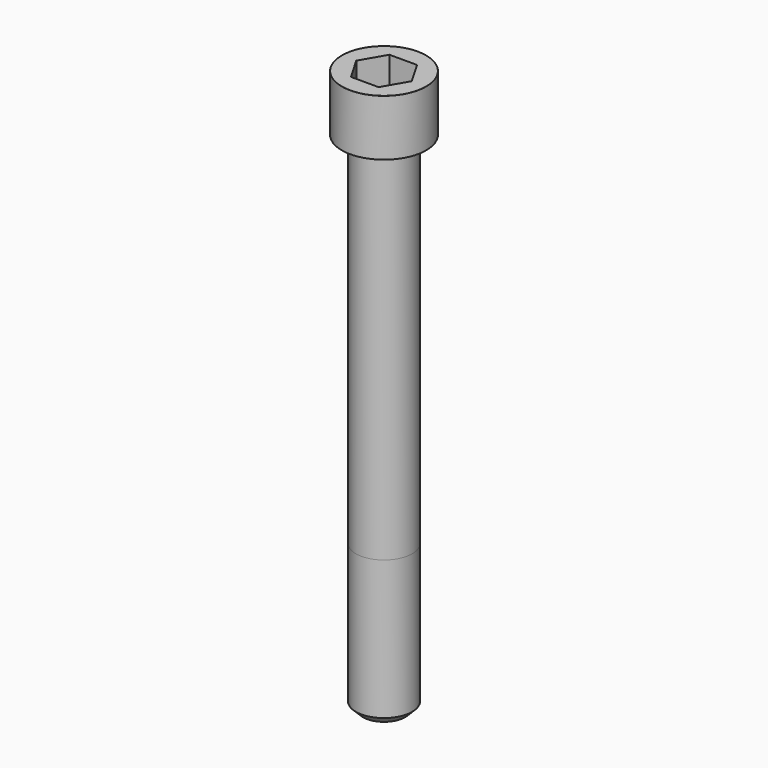
from build123d import *

# Parameters (mm, degrees)
POCKET_DEPTH = 17.1


with BuildPart() as part:
    # Sketch → Revolve (revolve)
    with BuildSketch(Plane.YZ):
        with BuildLine():
            Line((9.999, 0), (15, 0))
            Line((15, 0), (15, 19.97229))
            ThreePointArc((15, 19.97229), (14.991884, 19.991884), (14.97229, 20))
            Line((14.97229, 20), (0, 20))
            Line((0, -180), (0, 20))
            Line((7.5, -180), (0, -180))
            Line((10, -177.5), (7.5, -180))
            Line((10, -128), (10, -177.5))
            Line((9.999, 0), (10, -128))
        make_face()
    revolve(axis=Axis((0, 0, 0), (0, 0, 1)))

    # Sketch001 → Pocket (cut)
    with BuildSketch(Plane.XY.offset(20)):
        Polygon((9.87269, 0), (4.936345, 8.55), (-4.936345, 8.55), (-9.87269, 0), (-4.936345, -8.55), (4.936345, -8.55), align=None)
    extrude(amount=-POCKET_DEPTH, mode=Mode.SUBTRACT)


solid = part.part
